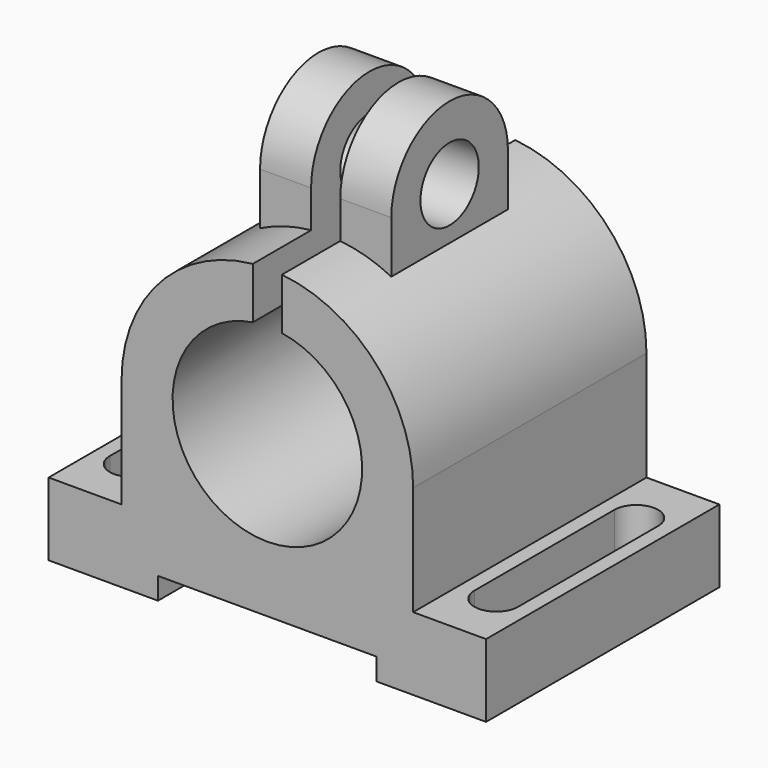
from build123d import *

# Parameters (mm, degrees)
SKETCH_W        = 60
SKETCH_H        = 40
PAD_DEPTH       = 10
PAD001_DEPTH    = 40
SKETCH002_W     = 30
SKETCH002_H     = 3
POCKET_DEPTH    = 40
PAD002_DEPTH    = 9
SKETCH004_R     = 5
POCKET001_DEPTH = 39.001
POCKET002_DEPTH = 197.61763
POCKET003_DEPTH = 40.001


with BuildPart() as part:
    # Sketch → Pad (new body)
    with BuildSketch(Plane.XY):
        Rectangle(SKETCH_W, SKETCH_H)
    extrude(amount=PAD_DEPTH)

    # Sketch001 (on Face3 of Pad) → Pad001 (join)
    with BuildSketch(Plane.XZ.offset(20)):
        with BuildLine():
            Line((-20, 10), (-20, 25))
            ThreePointArc((20, 25), (0, 45), (-20, 25))
            Line((20, 25), (20, 10))
            Line((-20, 10), (20, 10))
        make_face()
    extrude(amount=-PAD001_DEPTH)

    # Sketch002 (on Face8 of Pad001) → Pocket (cut)
    with BuildSketch(Plane.XZ.offset(20)):
        with Locations((0, 1.5)):
            Rectangle(SKETCH002_W, SKETCH002_H)
    extrude(amount=-POCKET_DEPTH, mode=Mode.SUBTRACT)

    # Sketch003 → Pad002 (join, symmetric)
    with BuildSketch(Plane.YZ):
        with BuildLine():
            Line((-10, 38.84), (-10, 50))
            ThreePointArc((10, 50), (0, 60), (-10, 50))
            Line((10, 50), (10, 38.84))
            Line((10, 38.84), (-10, 38.84))
        make_face()
    extrude(amount=PAD002_DEPTH, both=True)

    # Sketch004 (on Face19 of Pad002) → Pocket001 (cut, through all)
    with BuildSketch(Plane(origin=(-9, 0, 0), x_dir=(0, -1, 0), z_dir=(-1, 0, 0))):
        with Locations((0, 50)):
            Circle(SKETCH004_R)
    extrude(amount=-POCKET001_DEPTH, mode=Mode.SUBTRACT)

    # Sketch005 (on Face10 of Pocket001) → Pocket002 (cut, through all)
    with BuildSketch(Plane.XY.offset(10)):
        with BuildLine():
            ThreePointArc((28, 12), (25, 15), (22, 12))
            Line((22, 12), (22, -12))
            ThreePointArc((22, -12), (25, -15), (28, -12))
            Line((28, 12), (28, -12))
        make_face()
    pocket002 = extrude(amount=-POCKET002_DEPTH, mode=Mode.SUBTRACT)

    # Mirrored: Pocket002 across Sketch005 V_Axis
    add(pocket002.mirror(Plane(origin=(0, 0, 10), x_dir=(0, 0, 1), z_dir=(1, 0, 0))), mode=Mode.SUBTRACT)

    # Sketch007 (on Face24 of Mirrored) → Pocket003 (cut, through all)
    with BuildSketch(Plane.XZ.offset(20)):
        with BuildLine():
            ThreePointArc((-2, 37.845233), (0, 12), (2, 37.845233))
            Line((2, 63.745233), (2, 37.845233))
            Line((-2, 63.745233), (2, 63.745233))
            Line((-2, 37.845233), (-2, 63.745233))
        make_face()
    extrude(amount=-POCKET003_DEPTH, mode=Mode.SUBTRACT)


solid = part.part
